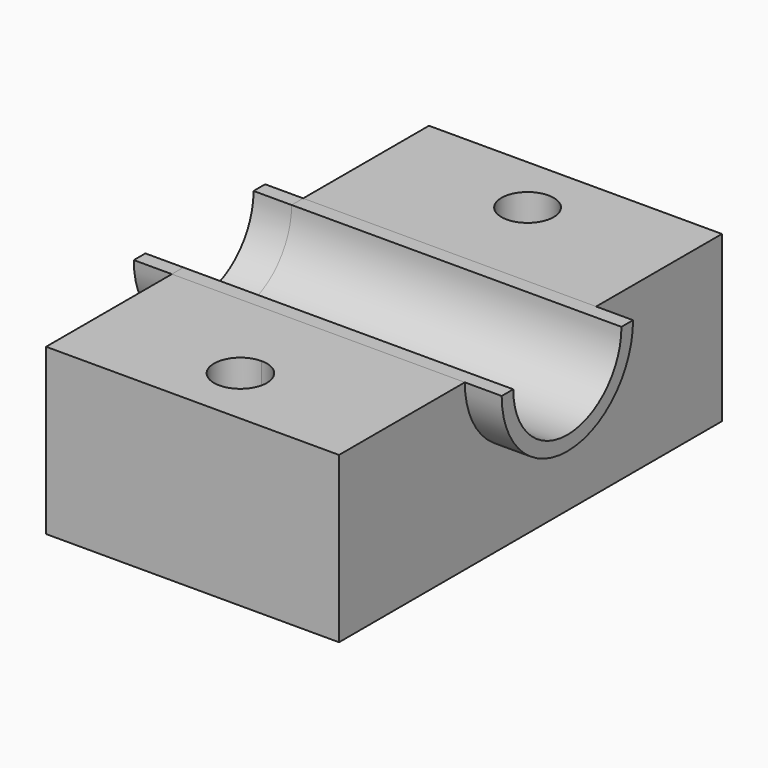
from build123d import *

# Parameters (mm, degrees)
F1_DEPTH = 33.02
F3_DEPTH = 76.2
F4_DEPTH = 7.62
F5_DEPTH = 66.04


with BuildPart() as f1:
    # F0 (on Top) → F1 (new body)
    with BuildSketch(Plane.XY):
        with BuildLine():
            Line((0, -47.9143559933), (29.3275189122, -47.9143559933))
            Line((29.3275189122, -47.9143559933), (29.3275189122, 0))
            Line((29.3275189122, 0), (0, 0))
            Line((0, 0), (0, -23.9571779966))
            Line((0, -23.9571779966), (0, -30.6478155525))
            ThreePointArc((0, -30.6478155525), (3.7391463235, -32.1966206714), (5.2879514424, -35.935766995))
            ThreePointArc((5.2879514424, -35.935766995), (3.7391463235, -39.6749133185), (0, -41.2237184374))
            Line((0, -41.2237184374), (0, -47.9143559933))
        make_face()
        with BuildLine():
            Line((-29.3275189122, -47.9143559933), (0, -47.9143559933))
            Line((0, -47.9143559933), (0, -41.2237184374))
            ThreePointArc((0, -41.2237184374), (-5.2879514424, -35.935766995), (0, -30.6478155525))
            Line((0, -30.6478155525), (0, -23.9571779966))
            Line((0, -23.9571779966), (0, 0))
            Line((0, 0), (-29.3275189122, 0))
            Line((-29.3275189122, 0), (-29.3275189122, -47.9143559933))
        make_face()
        with BuildLine():
            Line((0, 0), (29.3275189122, 0))
            Line((29.3275189122, 0), (29.3275189122, 47.9143559933))
            Line((29.3275189122, 47.9143559933), (0, 47.9143559933))
            Line((0, 47.9143559933), (0, 41.165858772))
            ThreePointArc((0, 41.165858772), (3.6982333618, 39.6340003567), (5.2300917771, 35.935766995))
            ThreePointArc((5.2300917771, 35.935766995), (3.6982333618, 32.2375336332), (0, 30.7056752179))
            Line((0, 30.7056752179), (0, 23.9571779966))
            Line((0, 23.9571779966), (0, 0))
        make_face()
        with BuildLine():
            Line((-29.3275189122, 0), (0, 0))
            Line((0, 0), (0, 23.9571779966))
            Line((0, 23.9571779966), (0, 30.7056752179))
            ThreePointArc((0, 30.7056752179), (-5.2300917771, 35.935766995), (0, 41.165858772))
            Line((0, 41.165858772), (0, 47.9143559933))
            Line((0, 47.9143559933), (-29.3275189122, 47.9143559933))
            Line((-29.3275189122, 47.9143559933), (-29.3275189122, 0))
        make_face()
    extrude(amount=F1_DEPTH)

    # F2 (on face) → F3 (cut)
    with BuildSketch(Plane(origin=(-29.3275189122, 0, 0), x_dir=(0, -1, 0), z_dir=(-1, 0, 0))):
        with BuildLine():
            ThreePointArc((-16.4354129584, 33.02), (0, 16.5845870416), (16.4354129584, 33.02))
            Line((16.4354129584, 33.02), (13.5376890678, 33.02))
            ThreePointArc((13.5376890678, 33.02), (0, 19.4823109322), (-13.5376890678, 33.02))
            Line((-13.5376890678, 33.02), (-16.4354129584, 33.02))
        make_face()
        with BuildLine():
            ThreePointArc((-13.5376890678, 33.02), (0, 19.4823109322), (13.5376890678, 33.02))
            Line((13.5376890678, 33.02), (-13.5376890678, 33.02))
        make_face()
    extrude(amount=-F3_DEPTH, mode=Mode.SUBTRACT)


with BuildPart() as f4:
    # F2 (on face) → F4 (new body)
    with BuildSketch(Plane(origin=(-29.3275189122, 0, 0), x_dir=(0, -1, 0), z_dir=(-1, 0, 0))):
        with BuildLine():
            ThreePointArc((-16.4354129584, 33.02), (0, 16.5845870416), (16.4354129584, 33.02))
            Line((16.4354129584, 33.02), (13.5376890678, 33.02))
            ThreePointArc((13.5376890678, 33.02), (0, 19.4823109322), (-13.5376890678, 33.02))
            Line((-13.5376890678, 33.02), (-16.4354129584, 33.02))
        make_face()
    extrude(amount=F4_DEPTH)


with BuildPart() as f5:
    # F2 (on face) → F5 (new body)
    with BuildSketch(Plane(origin=(-29.3275189122, 0, 0), x_dir=(0, -1, 0), z_dir=(-1, 0, 0))):
        with BuildLine():
            ThreePointArc((-16.4354129584, 33.02), (0, 16.5845870416), (16.4354129584, 33.02))
            Line((16.4354129584, 33.02), (13.5376890678, 33.02))
            ThreePointArc((13.5376890678, 33.02), (0, 19.4823109322), (-13.5376890678, 33.02))
            Line((-13.5376890678, 33.02), (-16.4354129584, 33.02))
        make_face()
    extrude(amount=-F5_DEPTH)


solid = Compound([f1.part, f4.part, f5.part])
